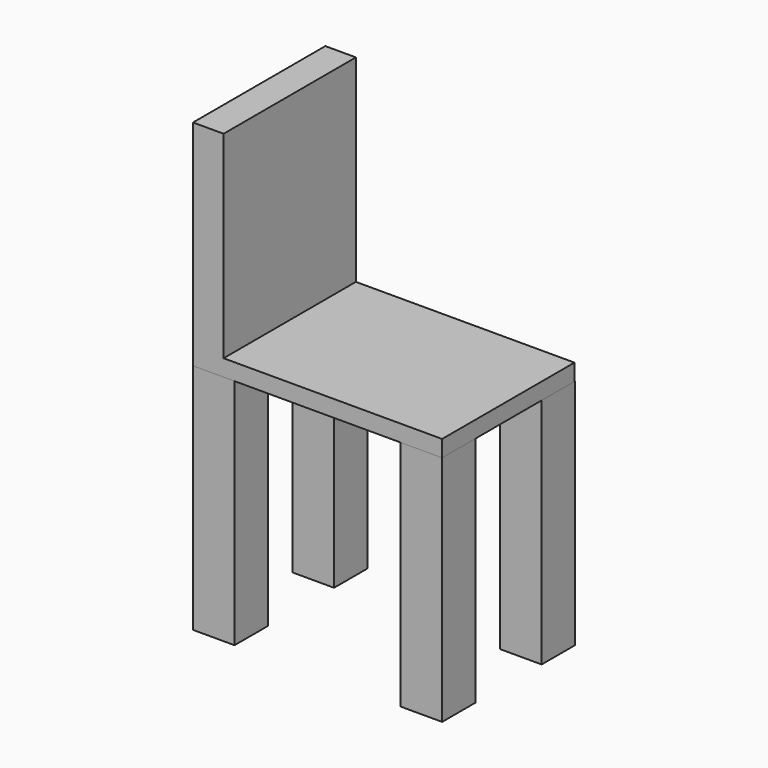
from build123d import *

# Parameters (mm, degrees)
F0_W     = 63.5
F0_H     = 63.770218
F1_DEPTH = 355.6
F2_W     = 381
F2_H     = 252.955556
F3_DEPTH = 25.4
F4_W     = 46.742029
F4_H     = 252.955556
F5_DEPTH = 302.26


with BuildPart() as f1:
    # F0 (on Top) → F1 (new body)
    with BuildSketch(Plane.XY):
        with Locations((349.25, 31.885109)):
            Rectangle(F0_W, F0_H)
        with Locations((31.75, 31.885109)):
            Rectangle(F0_W, F0_H)
        with Locations((31.75, 222.114891)):
            Rectangle(F0_W, F0_H)
        with Locations((349.25, 222.114891)):
            Rectangle(F0_W, F0_H)
    extrude(amount=F1_DEPTH)


with BuildPart() as f3:
    # F2 (on face) → F3 (new body)
    with BuildSketch(Plane.XY.offset(355.6)):
        with Locations((190.5, 126.477778)):
            Rectangle(F2_W, F2_H)
    extrude(amount=F3_DEPTH)

    # F4 (on face) → F5 (join)
    with BuildSketch(Plane.XY.offset(381)):
        with Locations((23.371014, 126.477778)):
            Rectangle(F4_W, F4_H)
    extrude(amount=F5_DEPTH)


solid = Compound([f1.part, f3.part])
